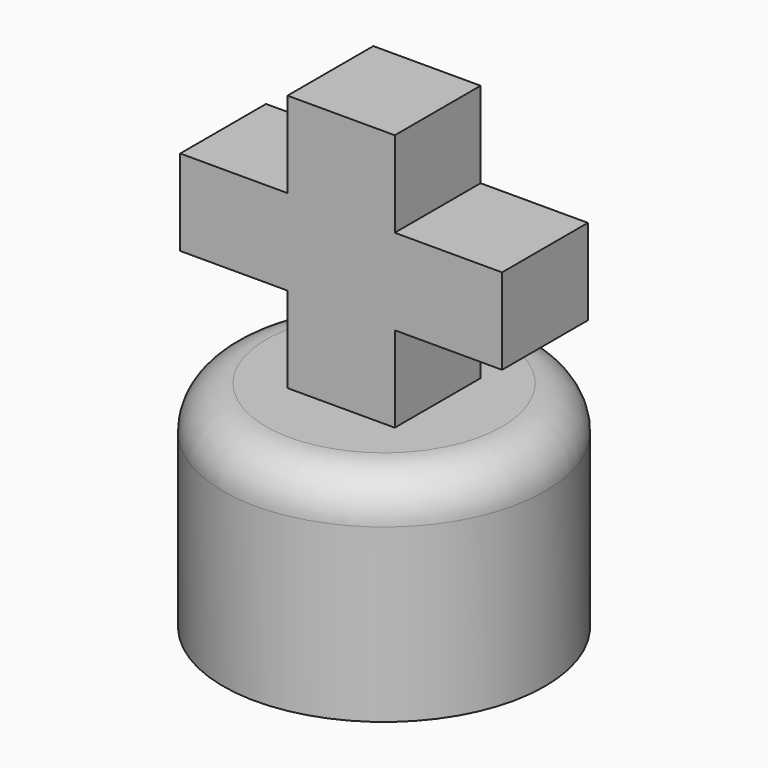
from build123d import *

# Parameters (mm, degrees)
F0_R     = 7.5
F1_DEPTH = 10
F3_DEPTH = 2.5
F4_R     = 2


with BuildPart() as f1:
    # F0 (on Top) → F1 (new body)
    with BuildSketch(Plane.XY):
        Circle(F0_R)
    extrude(amount=F1_DEPTH)

    # F2 (on Front) → F3 (join, symmetric)
    with BuildSketch(Plane.XZ):
        Polygon((2.5, 22), (-2.5, 22), (-2.5, 18), (-7.5, 18), (-7.5, 14), (-2.5, 14), (-2.5, 10), (2.5, 10), (2.5, 14), (7.5, 14), (7.5, 18), (2.5, 18), align=None)
    extrude(amount=F3_DEPTH, both=True)

    # F4
    f4_edges = [f1.edges().sort_by_distance(p)[0] for p in [
        (-7.5, 0, 10),
    ]]
    fillet(f4_edges, radius=F4_R)


solid = f1.part
